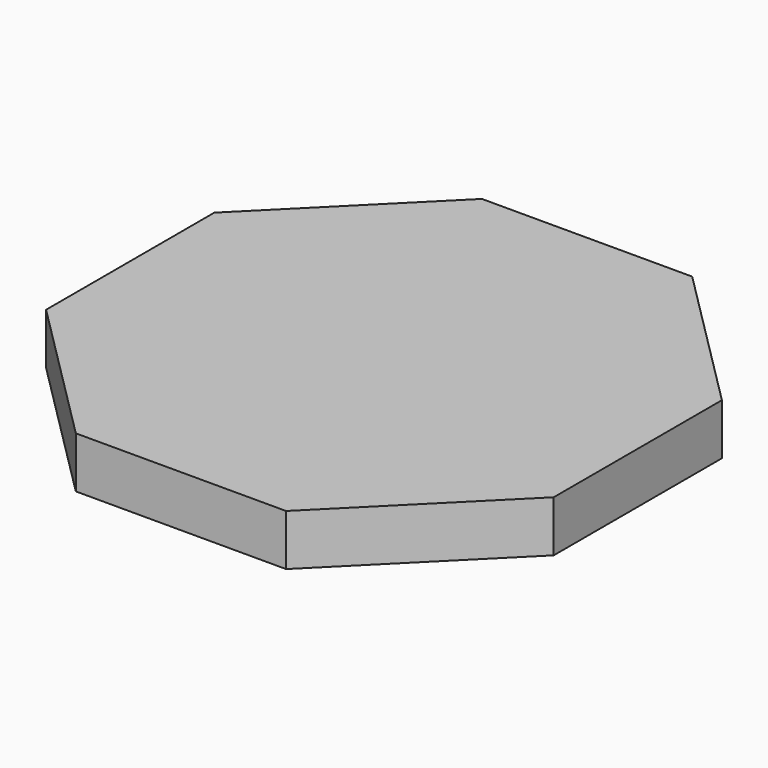
from build123d import *

# Parameters (mm, degrees)
F1_DEPTH = 12.7


with BuildPart() as f1:
    # F0 (on Top) → F1 (new body)
    with BuildSketch(Plane.XY):
        Polygon((-26.101787, -63.015288), (0, 0), (-63.015288, -26.101787), align=None)
        Polygon((26.101787, 63.015288), (-26.101787, 63.015288), (0, 0), align=None)
        Polygon((63.015288, 26.101787), (26.101787, 63.015288), (0, 0), align=None)
        Polygon((63.015288, 26.101787), (0, 0), (63.015288, -26.101787), align=None)
        Polygon((63.015288, -26.101787), (0, 0), (26.101787, -63.015288), align=None)
        Polygon((26.101787, -63.015288), (0, 0), (-26.101787, -63.015288), align=None)
        Polygon((0, 0), (-63.015288, 26.101787), (-63.015288, -26.101787), align=None)
        Polygon((0, 0), (-26.101787, 63.015288), (-63.015288, 26.101787), align=None)
    extrude(amount=F1_DEPTH)


solid = f1.part
